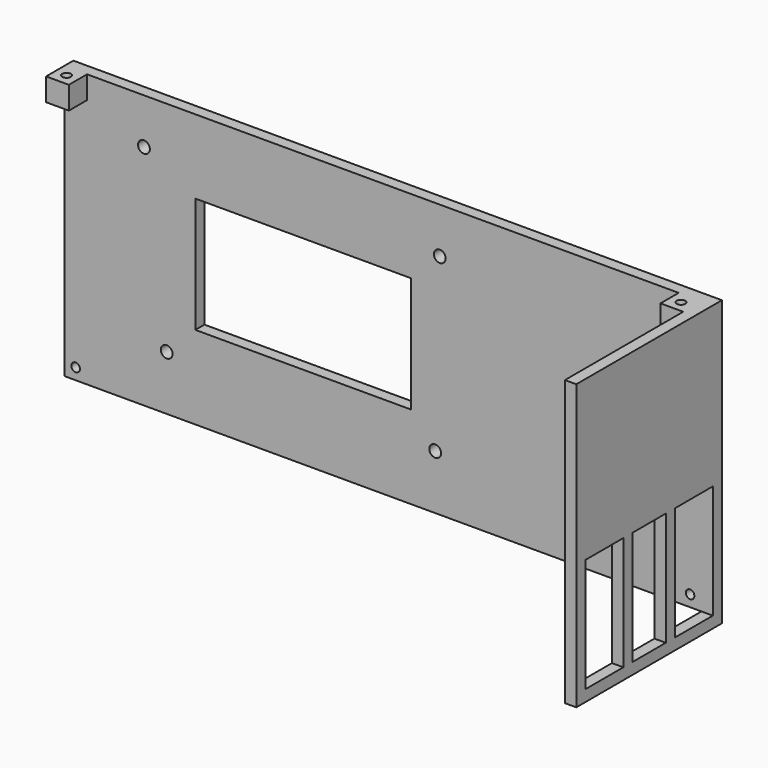
from build123d import *

# Parameters (mm, degrees)
F0_W      = 184.15
F0_H      = 50.8
F1_DEPTH  = 3.175
F3_D      = 3.2
F4_W      = 184.15
F4_H      = 3.175
F5_DEPTH  = 76.2
F7_D      = 3.3
F8_W      = 3.175
F8_H      = 47.625
F9_DEPTH  = 76.2
F10_W     = 19.05
F10_H     = 34.925
F11_DEPTH = 3.175
F12_W     = 3.175
F12_H     = 47.625
F13_DEPTH = 76.2
F14_W     = 13.2291666667
F14_H     = 31.75
F14_W_2   = 11.6416666667
F15_DEPTH = 3.175
F16_W     = 6.35
F16_H     = 6.35
F17_DEPTH = 6.35
F19_D     = 2.4
F19_DEPTH = 12.7
F19_TIP   = 0.7210327428
F20_W     = 121.4
F20_H     = 34.925
F21_DEPTH = 25.4
F22_W     = 60.2
F22_H     = 32.26
F23_DEPTH = 25.4
F25_DEPTH = 50.801
F27_D     = 2.4
F27_DEPTH = 12.7
F27_TIP   = 0.7210327428


with BuildPart() as f1:
    # F0 (on Top) → F1 (new body)
    with BuildSketch(Plane.XY):
        with Locations((-3.8965528874, 0)):
            Rectangle(F0_W, F0_H)
    extrude(amount=F1_DEPTH)

    # F3 (through all)
    with Locations(Plane.XY.offset(3.175)):
        with Locations((-78.8965528874, 9.525), (-78.8965528874, -15.475), (71.1034471126, -15.475), (71.1034471126, 9.525)):
            Hole(F3_D / 2)

    # F4 (on face) → F5 (join)
    with BuildSketch(Plane.XY.offset(3.175)):
        with Locations((-3.8965528874, 23.8125)):
            Rectangle(F4_W, F4_H)
    extrude(amount=F5_DEPTH)

    # F7 (through all)
    with Locations(Plane.XZ.offset(-22.225)):
        with Locations((-70.5715528874, 66.675), (11.9784471126, 66.675), (10.7084471126, 18.415), (-64.2215528874, 18.415)):
            Hole(F7_D / 2)

    # F8 (on face) → F9 (join)
    with BuildSketch(Plane.XY.offset(3.175)):
        with Locations((-94.3840528874, -1.5875)):
            Rectangle(F8_W, F8_H)
    extrude(amount=F9_DEPTH)

    # F10 (on face) → F11 (cut, through all)
    with BuildSketch(Plane(origin=(-95.9715528874, 0, 0), x_dir=(0, -1, 0), z_dir=(-1, 0, 0))):
        with Locations((12.7, 58.7375)):
            Rectangle(F10_W, F10_H)
        with Locations((12.7, 20.6375)):
            Rectangle(F10_W, F10_H)
    extrude(amount=-F11_DEPTH, mode=Mode.SUBTRACT)

    # F12 (on face) → F13 (join)
    with BuildSketch(Plane.XY.offset(3.175)):
        with Locations((86.5909471126, -1.5875)):
            Rectangle(F12_W, F12_H)
    extrude(amount=F13_DEPTH)

    # F14 (on face) → F15 (cut, through all)
    with BuildSketch(Plane.YZ.offset(88.1784471126)):
        with Locations((-15.6104166667, 19.05)):
            Rectangle(F14_W, F14_H)
        with Locations((0, 19.05)):
            Rectangle(F14_W_2, F14_H)
        with Locations((15.6104166667, 19.05)):
            Rectangle(F14_W, F14_H)
    extrude(amount=-F15_DEPTH, mode=Mode.SUBTRACT)

    # F16 (on face) → F17 (join)
    with BuildSketch(Plane.XZ.offset(-22.225)):
        with Locations((-89.6215528874, 76.2)):
            Rectangle(F16_W, F16_H)
        with Locations((-89.6215528874, 76.2)):
            Rectangle(F16_W, F16_H)
        with Locations((81.8284471126, 76.2)):
            Rectangle(F16_W, F16_H)
    extrude(amount=F17_DEPTH)

    # F19
    with Locations(Plane.XY.offset(79.375)):
        with Locations((-89.6215528874, 19.05), (81.8284471126, 19.05)):
            Hole(F19_D / 2, depth=F19_DEPTH)
            with Locations((0, 0, -(F19_DEPTH + F19_TIP / 2))):  # 118° drill point
                Cone(0, F19_D / 2, F19_TIP, mode=Mode.SUBTRACT)

    # F20 (on face) → F21 (cut)
    with BuildSketch(Plane.XY.offset(3.175)):
        with Locations((-3.8965528874, -1.5875)):
            Rectangle(F20_W, F20_H)
    extrude(amount=-F21_DEPTH, mode=Mode.SUBTRACT)

    # F22 (on face) → F23 (cut)
    with BuildSketch(Plane.XZ.offset(-22.225)):
        with Locations((-26.1215528874, 42.545)):
            Rectangle(F22_W, F22_H)
    extrude(amount=-F23_DEPTH, mode=Mode.SUBTRACT)

    # F24 (on face) → F25 (cut, through all)
    with BuildSketch(Plane.XZ.offset(25.4)):
        Polygon((-92.7965528874, 79.375), (-95.9715528874, 79.375), (-95.9715528874, 0), (85.0034471126, 0), (85.0034471126, 3.175), (-92.7965528874, 3.175), align=None)
    extrude(amount=-F25_DEPTH, mode=Mode.SUBTRACT)

    # F27
    with Locations(Plane.XZ.offset(-22.225)):
        with Locations((-89.6215528874, 6.35), (81.8284471126, 6.35)):
            Hole(F27_D / 2, depth=F27_DEPTH)
            with Locations((0, 0, -(F27_DEPTH + F27_TIP / 2))):  # 118° drill point
                Cone(0, F27_D / 2, F27_TIP, mode=Mode.SUBTRACT)


solid = f1.part
